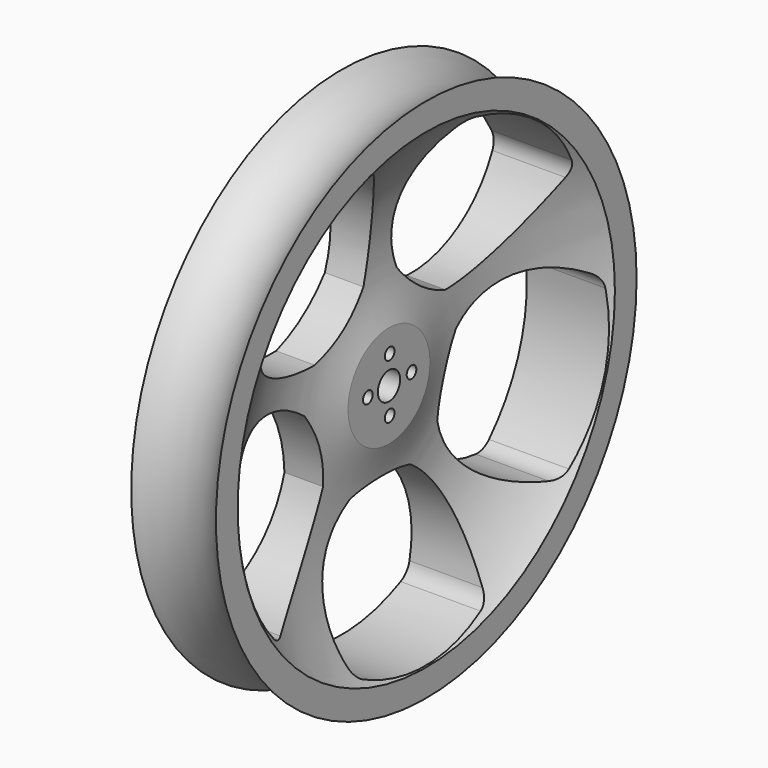
from build123d import *

# Parameters (mm, degrees)
F3_R     = 1.775
F4_DEPTH = 50


with BuildPart() as f1:
    # F0 (on Top) → F1 (revolve)
    with BuildSketch(Plane.XY):
        with BuildLine():
            ThreePointArc((14.057952, 77.55), (1.557952, 72.585443), (-10.942048, 77.55))
            Line((-10.942048, 77.55), (-10.942048, 4.1))
            Line((-10.942048, 4.1), (3.057952, 4.1))
            Line((3.057952, 4.1), (3.057952, 15.1))
            ThreePointArc((3.057952, 15.1), (1.377341, 43.775629), (14.057952, 69.55))
            Line((14.057952, 69.55), (14.057952, 77.55))
        make_face()
    revolve(axis=Axis((3.827849, 0, 0), (1, 0, 0)))

    # F3 (on offset) → F4 (cut)
    with BuildSketch(Plane.YZ.offset(15)):
        with BuildLine():
            ThreePointArc((-49.468369, -42.40974), (-31.529137, -34.888813), (-21.053099, -18.498785))
            ThreePointArc((-21.053099, -18.498785), (-22.917448, -7.44633), (-27.905628, 2.59113))
            ThreePointArc((-27.905628, 2.59113), (-46.014738, 9.693281), (-64.948572, 5.233423))
            ThreePointArc((-64.948572, 5.233423), (-66.894063, 3.38691), (-67.840566, 0.877193))
            ThreePointArc((-67.840566, 0.877193), (-65.842617, -21.393563), (-54.368569, -40.585348))
            ThreePointArc((-54.368569, -40.585348), (-52.127658, -42.059412), (-49.468369, -42.40974))
        make_face()
        with BuildLine():
            ThreePointArc((-55.620627, 33.941885), (-42.924273, 19.204755), (-24.099155, 14.306248))
            ThreePointArc((-24.099155, 14.306248), (-14.163762, 19.494746), (-6.159002, 27.340532))
            ThreePointArc((-6.159002, 27.340532), (-5.000477, 46.758005), (-15.092932, 63.386979))
            ThreePointArc((-15.092932, 63.386979), (-17.450259, 64.666647), (-20.129627, 64.79128))
            ThreePointArc((-20.129627, 64.79128), (-40.692975, 56.009075), (-55.399772, 39.16602))
            ThreePointArc((-55.399772, 39.16602), (-56.10921, 36.579276), (-55.620627, 33.941885))
        make_face()
        with BuildLine():
            ThreePointArc((15.092932, 63.386979), (5.000477, 46.758005), (6.159002, 27.340532))
            ThreePointArc((6.159002, 27.340532), (14.163762, 19.494746), (24.099155, 14.306248))
            ThreePointArc((24.099155, 14.306248), (42.924273, 19.204755), (55.620627, 33.941885))
            ThreePointArc((55.620627, 33.941885), (56.10921, 36.579276), (55.399772, 39.16602))
            ThreePointArc((55.399772, 39.16602), (40.692975, 56.009075), (20.129627, 64.79128))
            ThreePointArc((20.129627, 64.79128), (17.450259, 64.666647), (15.092932, 63.386979))
        make_face()
        with BuildLine():
            ThreePointArc((64.948572, 5.233423), (46.014738, 9.693281), (27.905628, 2.59113))
            ThreePointArc((27.905628, 2.59113), (22.917448, -7.44633), (21.053099, -18.498785))
            ThreePointArc((21.053099, -18.498785), (31.529137, -34.888813), (49.468369, -42.40974))
            ThreePointArc((49.468369, -42.40974), (52.127658, -42.059412), (54.368569, -40.585348))
            ThreePointArc((54.368569, -40.585348), (65.842617, -21.393563), (67.840566, 0.877193))
            ThreePointArc((67.840566, 0.877193), (66.894063, 3.38691), (64.948572, 5.233423))
        make_face()
        with BuildLine():
            ThreePointArc((11.087624, -25.739126), (0, -24.096831), (-11.087624, -25.739126))
            ThreePointArc((-11.087624, -25.739126), (-23.438194, -40.767227), (-25.047493, -60.152546))
            ThreePointArc((-25.047493, -60.152546), (-23.892545, -62.573422), (-21.798148, -64.249144))
            ThreePointArc((-21.798148, -64.249144), (0, -69.231025), (21.798148, -64.249144))
            ThreePointArc((21.798148, -64.249144), (23.892545, -62.573422), (25.047493, -60.152546))
            ThreePointArc((25.047493, -60.152546), (23.438194, -40.767227), (11.087624, -25.739126))
        make_face()
        with Locations((0.254906, 8.229248)):
            Circle(F3_R)
        with Locations((8.304906, 0.179248)):
            Circle(F3_R)
        with Locations((0.254906, -7.870752)):
            Circle(F3_R)
        with Locations((-7.795094, 0.179248)):
            Circle(F3_R)
    extrude(amount=-F4_DEPTH, mode=Mode.SUBTRACT)


solid = f1.part
